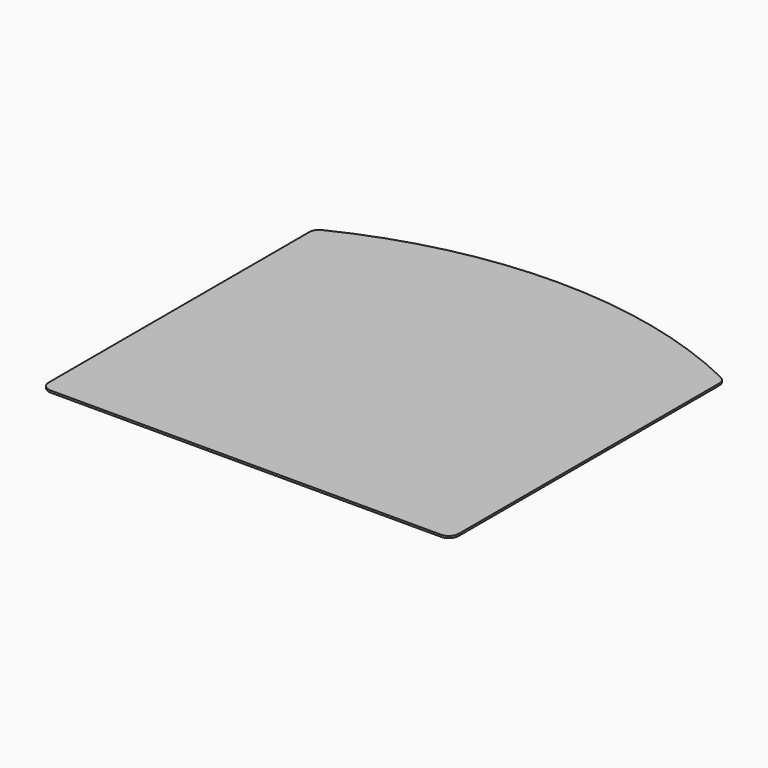
from build123d import *

# Parameters (mm, degrees)
PAD_DEPTH = 1
FILLET_R  = 5


with BuildPart() as part:
    # Sketch → Pad (new body)
    with BuildSketch(Plane.XY):
        with BuildLine():
            Line((-105, 0), (105, 0))
            Line((105, 0), (105, 175))
            ThreePointArc((105, 175), (0, 200), (-105, 175))
            Line((-105, 0), (-105, 175))
        make_face()
    extrude(amount=PAD_DEPTH)

    # Fillet
    fillet_edges = [part.edges().sort_by_distance(p)[0] for p in [
        (105, 0, 0.5),
        (105, 175, 0.5),
        (-105, 175, 0.5),
        (-105, 0, 0.5),
    ]]
    fillet(fillet_edges, radius=FILLET_R)


solid = part.part
